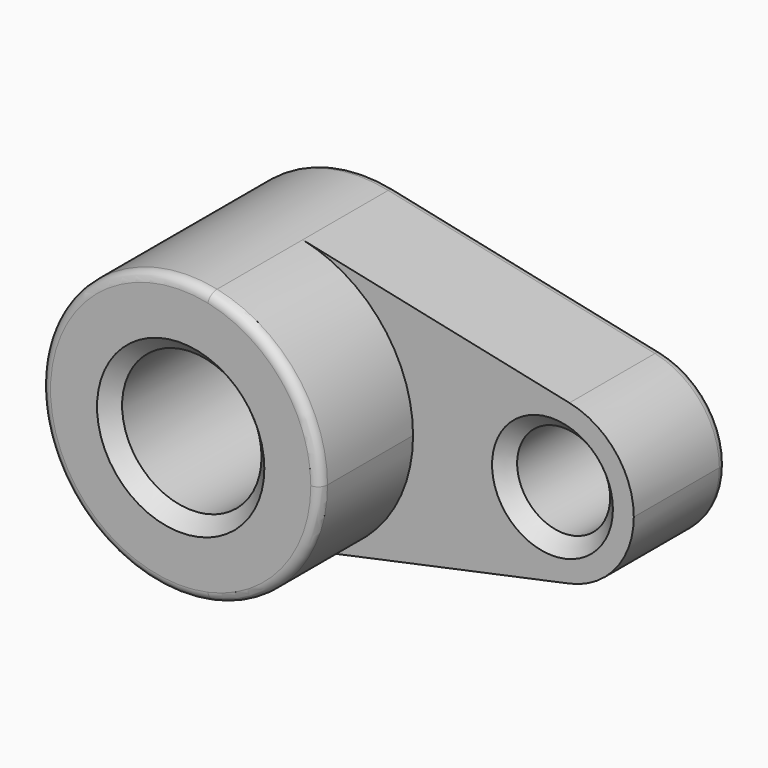
from build123d import *

# Parameters (mm, degrees)
F0_R     = 15
F0_R_2   = 10
F1_DEPTH = 25
F2_DEPTH = 50
F3_R     = 2
F4_SIZE  = 3


with BuildPart() as f1:
    # F0 (on Front) → F1 (new body)
    with BuildSketch(Plane.XZ):
        with BuildLine():
            ThreePointArc((6.25, 29.341736), (23.318448, 18.874586), (30, 0))
            ThreePointArc((30, 0), (23.318448, -18.874586), (6.25, -29.341736))
            Line((6.25, -29.341736), (63.645833, -17.116013))
            ThreePointArc((63.645833, -17.116013), (42.5, 0), (63.645833, 17.116013))
            Line((63.645833, 17.116013), (6.25, 29.341736))
        make_face()
        with BuildLine():
            ThreePointArc((6.25, -29.341736), (23.318448, -18.874586), (30, 0))
            ThreePointArc((30, 0), (23.318448, 18.874586), (6.25, 29.341736))
            ThreePointArc((6.25, 29.341736), (-30, 0), (6.25, -29.341736))
        make_face()
        Circle(F0_R, mode=Mode.SUBTRACT)
        with BuildLine():
            ThreePointArc((77.5, 0), (73.602428, 11.010175), (63.645833, 17.116013))
            ThreePointArc((63.645833, 17.116013), (42.5, 0), (63.645833, -17.116013))
            ThreePointArc((63.645833, -17.116013), (73.602428, -11.010175), (77.5, 0))
        make_face()
        with Locations((60, 0)):
            Circle(F0_R_2, mode=Mode.SUBTRACT)
    extrude(amount=F1_DEPTH)

    # F0 (on Front) → F2 (join)
    with BuildSketch(Plane.XZ):
        with BuildLine():
            ThreePointArc((6.25, -29.341736), (23.318448, -18.874586), (30, 0))
            ThreePointArc((30, 0), (23.318448, 18.874586), (6.25, 29.341736))
            ThreePointArc((6.25, 29.341736), (-30, 0), (6.25, -29.341736))
        make_face()
        Circle(F0_R, mode=Mode.SUBTRACT)
    extrude(amount=F2_DEPTH)

    # F3
    f3_edges = [f1.edges().sort_by_distance(p)[0] for p in [
        (34.947917, 0, -23.228875),
        (-6.25, -50, 29.341736),
    ]]
    fillet(f3_edges, radius=F3_R)

    # F4
    f4_edges = [f1.edges().sort_by_distance(p)[0] for p in [
        (50, -25, 0),
        (-15, 0, 0),
        (15, -25, 0),
        (-15, -50, 0),
    ]]
    chamfer(f4_edges, length=F4_SIZE)


solid = f1.part
